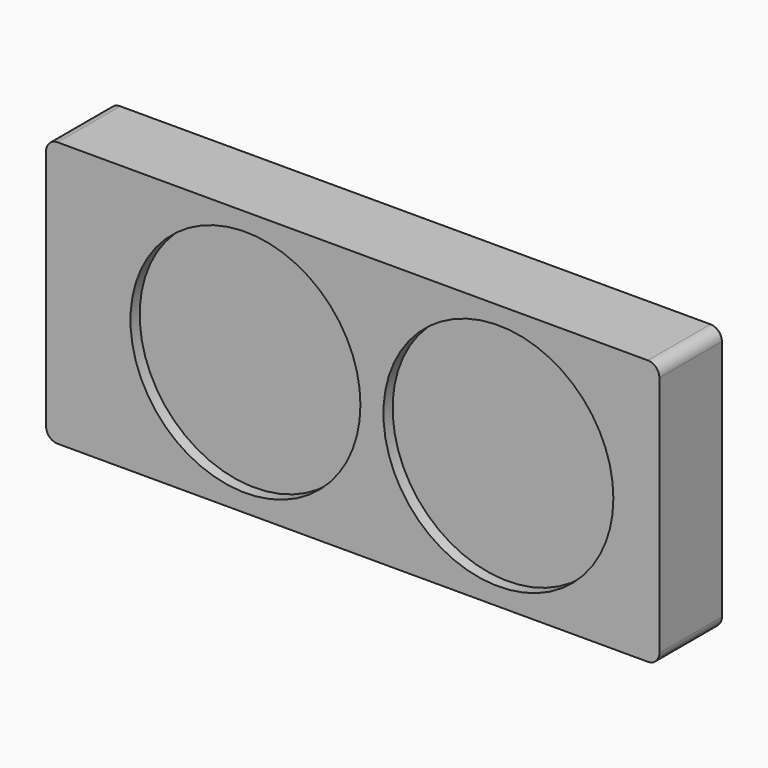
from build123d import *

# Parameters (mm, degrees)
F1_DEPTH = 34
F2_R     = 50
F3_DEPTH = 5


with BuildPart() as f1:
    # F0 (on Front) → F1 (new body)
    with BuildSketch(Plane.XZ):
        with BuildLine():
            ThreePointArc((0, 5), (1.464466, 1.464466), (5, 0))
            Line((5, 0), (261.7, 0))
            ThreePointArc((261.7, 0), (265.235534, 1.464466), (266.7, 5))
            Line((266.7, 5), (266.7, 110.4))
            ThreePointArc((266.7, 110.4), (265.235534, 113.935534), (261.7, 115.4))
            Line((261.7, 115.4), (5, 115.4))
            ThreePointArc((5, 115.4), (1.464466, 113.935534), (0, 110.4))
            Line((0, 110.4), (0, 5))
        make_face()
    extrude(amount=F1_DEPTH)

    # F2 (on face) → F3 (cut)
    with BuildSketch(Plane.XZ.offset(34)):
        with Locations((86.7, 57.7)):
            Circle(F2_R)
        with Locations((196.7, 57.7)):
            Circle(F2_R)
    extrude(amount=-F3_DEPTH, mode=Mode.SUBTRACT)


solid = f1.part
